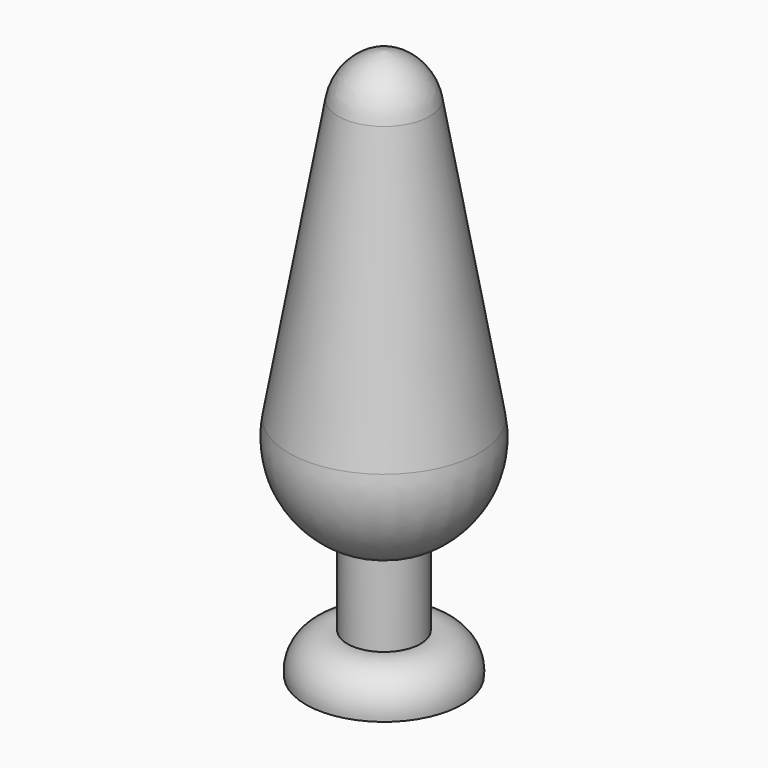
from build123d import *


with BuildPart() as f1:
    # F0 (on Front) → F1 (revolve)
    with BuildSketch(Plane.XZ):
        with BuildLine():
            ThreePointArc((0, 67.888993), (-3.702316, 66.167012), (-5.640389, 62.573095))
            Line((-5.640389, 62.573095), (-11.72613, 27.975875))
            ThreePointArc((-11.72613, 27.975875), (-10.425988, 20.163832), (-4.513005, 14.89553))
            Line((-4.513005, 14.89553), (-4.513005, 4.932122))
            ThreePointArc((-4.513005, 4.932122), (-8.307126, 3.748165), (-9.629383, 0))
            Line((-9.629383, 0), (0, 0))
            Line((0, 0), (0, 67.888993))
        make_face()
    revolve(axis=Axis((0, 0, 33.944497), (0, 0, 1)))


solid = f1.part
